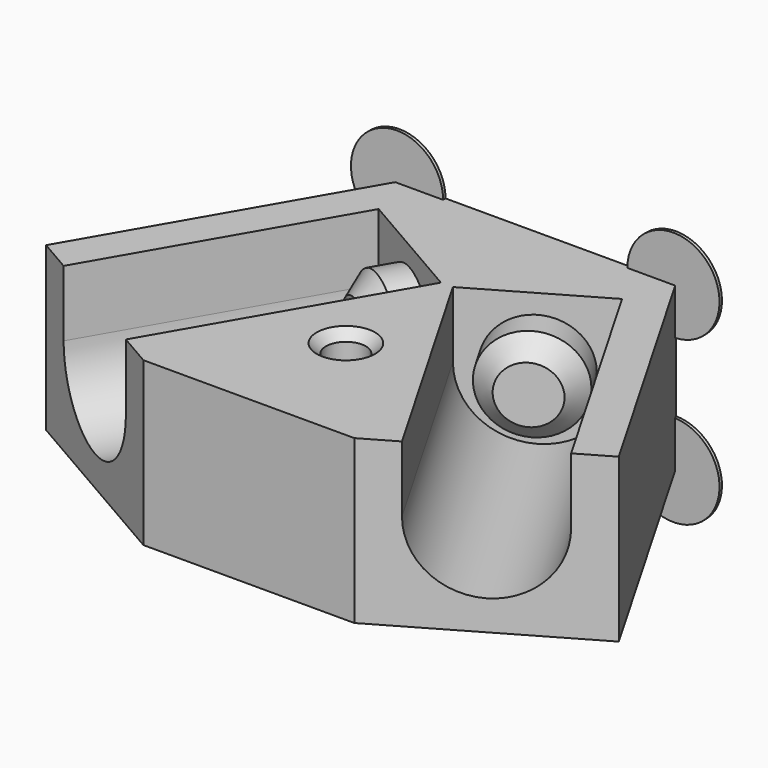
from build123d import *

# Parameters (mm, degrees)
F0_R      = 3.25
F1_DEPTH  = 31.5
F3_DEPTH  = 43
F5_DEPTH  = 43
F6_R      = 7.625
F7_DEPTH  = 7.5
F8_R      = 7.625
F9_DEPTH  = 7.5
F10_SIZE  = 3
F11_DEPTH = 5
F12_SIZE  = 1.5
F13_R     = 7.5
F14_DEPTH = 0.5


with BuildPart() as f1:
    # F0 (on Top) → F1 (new body)
    with BuildSketch(Plane.XY):
        Polygon((22.5, 195.0052188787), (-22.5, 195.0052188787), (-46.6147367097, 153.2372696863), (-17.1698729811, 136.2372696863), (17.1698729811, 136.2372696863), (46.6147367097, 153.2372696863), align=None)
        with Locations((0, 155.976362049)):
            Circle(F0_R, mode=Mode.SUBTRACT)
    extrude(amount=F1_DEPTH)

    # F2 (on face) → F3 (cut)
    with BuildSketch(Plane(origin=(54.7, 94.743179174, 0), x_dir=(0.8660254038, -0.5, 0), z_dir=(-0.5, -0.8660254038, 0))):
        with BuildLine():
            Line((-110.8631810245, 31.5), (-110.8631810245, 15.75))
            ThreePointArc((-110.8631810245, 15.75), (-99.9881810245, 4.875), (-89.1131810245, 15.75))
            Line((-89.1131810245, 15.75), (-89.1131810245, 31.5))
            Line((-89.1131810245, 31.5), (-110.8631810245, 31.5))
        make_face()
    extrude(amount=-F3_DEPTH, mode=Mode.SUBTRACT)

    # F4 (on face) → F5 (cut)
    with BuildSketch(Plane(origin=(-54.7, 94.743179174, 0), x_dir=(0.8660254038, 0.5, 0), z_dir=(0.5, -0.8660254038, 0))):
        with BuildLine():
            Line((89.1131810245, 31.5), (89.1131810245, 15.75))
            ThreePointArc((89.1131810245, 15.75), (99.9881810245, 4.875), (110.8631810245, 15.75))
            Line((110.8631810245, 15.75), (110.8631810245, 31.5))
            Line((110.8631810245, 31.5), (89.1131810245, 31.5))
        make_face()
    extrude(amount=-F5_DEPTH, mode=Mode.SUBTRACT)

    # F6 (on face) → F7 (join)
    with BuildSketch(Plane(origin=(76.2, 131.9822715367, 0), x_dir=(0.8660254038, -0.5, 0), z_dir=(-0.5, -0.8660254038, 0))):
        with Locations((-99.9881810245, 15.75)):
            Circle(F6_R)
    extrude(amount=F7_DEPTH)

    # F8 (on face) → F9 (join)
    with BuildSketch(Plane(origin=(-76.2, 131.9822715367, 0), x_dir=(0.8660254038, 0.5, 0), z_dir=(0.5, -0.8660254038, 0))):
        with Locations((99.9881810245, 15.75)):
            Circle(F8_R)
    extrude(amount=F9_DEPTH)

    # F10
    f10_edges = [f1.edges().sort_by_distance(p)[0] for p in [
        (-20.745749, 179.293672, 15.75),
        (7.538861, 171.668672, 15.75),
    ]]
    chamfer(f10_edges, length=F10_SIZE)

    # F11 (cut): a face of the model
    f11_faces = [f1.faces().sort_by_distance(p)[0] for p in [
        (0, 166.034633576, 31.5),
    ]]
    extrude(f11_faces, amount=-F11_DEPTH, mode=Mode.SUBTRACT)

    # F12
    f12_edges = [f1.edges().sort_by_distance(p)[0] for p in [
        (-3.25, 155.976362, 26.5),
        (-3.25, 155.976362, 0),
    ]]
    chamfer(f12_edges, length=F12_SIZE)

    # F13 (on face) → F14 (join)
    with BuildSketch(Plane(origin=(0, 195.0052188787, 0), x_dir=(-1, 0, 0), z_dir=(0, 1, 0))):
        with Locations((-22.5, 26.5)):
            Circle(F13_R)
        with Locations((22.5, 26.5)):
            Circle(F13_R)
        with Locations((22.5, 0)):
            Circle(F13_R)
        with Locations((-22.5, 0)):
            Circle(F13_R)
    extrude(amount=-F14_DEPTH)


solid = f1.part
